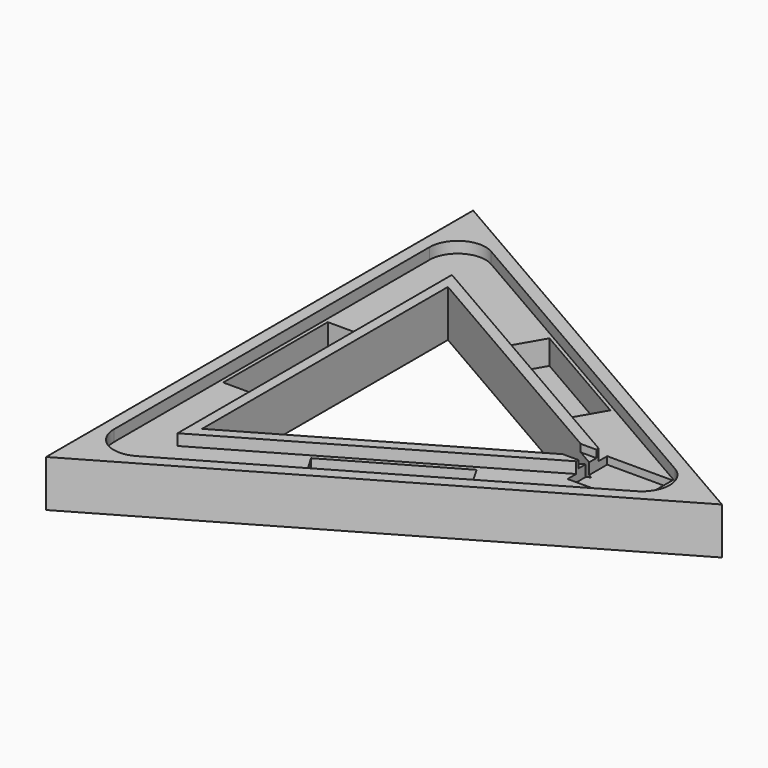
from build123d import *

# Parameters (mm, degrees)
PRISM003_DEPTH         = 6
PRISM002_DEPTH         = 6
BOX004_W               = 10
BOX004_H               = 12
BOX004_DEPTH           = 4
BOX003_W               = 35
BOX003_H               = 26.5
BOX003_DEPTH           = 10
BOX002_W               = 70
BOX002_H               = 19
BOX002_DEPTH           = 19
BOX002_PLACEMENT_ANGLE = 30
BOX001_W               = 70
BOX001_H               = 19
BOX001_DEPTH           = 19
BOX001_PLACEMENT_ANGLE = 90
BOX_W                  = 70
BOX_H                  = 19
BOX_DEPTH              = 19
BOX_PLACEMENT_ANGLE    = 30
PRISM001_DEPTH         = 25
PRISM_DEPTH            = 25
FILLET_R               = 15


with BuildPart() as prism003:
    # Prism003 → Prism003 (new body)
    with BuildSketch(Plane.XY.offset(13)):
        Polygon((106, 0), (-53, 91.798693), (-53, -91.798693), align=None)
    extrude(amount=PRISM003_DEPTH)


with BuildPart() as cut006:
    # Prism002 → Prism002 (new body)
    with BuildSketch(Plane.XY.offset(13)):
        Polygon((152, 0), (-76, 131.635861), (-76, -131.635861), align=None)
    extrude(amount=PRISM002_DEPTH)

    # Cut006: cut Prism003
    add(prism003.part, mode=Mode.SUBTRACT)


with BuildPart() as box004:
    # Box004 → Box004 (new body)
    with BuildSketch(Plane(origin=(84, -6, 15), x_dir=(1, 0, 0), z_dir=(0, 0, 1))):
        with Locations((5, 6)):
            Rectangle(BOX004_W, BOX004_H)
    extrude(amount=BOX004_DEPTH)


with BuildPart() as box003:
    # Box003 → Box003 (new body)
    with BuildSketch(Plane(origin=(93, -13.3, 9), x_dir=(1, 0, 0), z_dir=(0, 0, 1))):
        with Locations((17.5, 13.25)):
            Rectangle(BOX003_W, BOX003_H)
    extrude(amount=BOX003_DEPTH)


with BuildPart() as box002:
    # Box002 → Box002 (new body)
    with BuildSketch(Plane.XY):
        with Locations((35, 9.5)):
            Rectangle(BOX002_W, BOX002_H)
    extrude(amount=BOX002_DEPTH)


with BuildPart() as box002_1:
    # Box002 placement: moved
    add(box002.part.moved(Location((7, -82, 0))).rotate(Axis((7, -82, 0), (0, 0, 1)), BOX002_PLACEMENT_ANGLE))


with BuildPart() as box001:
    # Box001 → Box001 (new body)
    with BuildSketch(Plane.XY):
        with Locations((35, 9.5)):
            Rectangle(BOX001_W, BOX001_H)
    extrude(amount=BOX001_DEPTH)


with BuildPart() as box001_1:
    # Box001 placement: moved
    add(box001.part.moved(Location((-55, -35, 0))).rotate(Axis((-55, -35, 0), (0, 0, 1)), BOX001_PLACEMENT_ANGLE))


with BuildPart() as box:
    # Box → Box (new body)
    with BuildSketch(Plane.XY):
        with Locations((35, 9.5)):
            Rectangle(BOX_W, BOX_H)
    extrude(amount=BOX_DEPTH)


with BuildPart() as box_1:
    # Box placement: moved
    add(box.part.moved(Location((-2, 65, 0))).rotate(Axis((-2, 65, 0), (0, 0, -1)), BOX_PLACEMENT_ANGLE))


with BuildPart() as prism001:
    # Prism001 → Prism001 (new body)
    with BuildSketch(Plane.XY.offset(-6)):
        Polygon((95, 0), (-47.5, 82.272413), (-47.5, -82.272413), align=None)
    extrude(amount=PRISM001_DEPTH)


with BuildPart() as base_fillet:
    # Prism → Prism (new body)
    with BuildSketch(Plane.XY.offset(-6)):
        Polygon((165, 0), (-82.5, 142.894192), (-82.5, -142.894192), align=None)
    extrude(amount=PRISM_DEPTH)

    # Cut: cut Prism001
    add(prism001.part, mode=Mode.SUBTRACT)

    # Cut001: cut Box
    add(box_1.part, mode=Mode.SUBTRACT)

    # Cut002: cut Box001
    add(box001_1.part, mode=Mode.SUBTRACT)

    # Cut003: cut Box002
    add(box002_1.part, mode=Mode.SUBTRACT)

    # Cut004: cut Box003
    add(box003.part, mode=Mode.SUBTRACT)

    # Cut005: cut Box004
    add(box004.part, mode=Mode.SUBTRACT)

    # Cut007: cut Cut006
    add(cut006.part, mode=Mode.SUBTRACT)

    # Fillet
    fillet_edges = [base_fillet.edges().sort_by_distance(p)[0] for p in [
        (152, 0, 16),
        (-76, 131.635861, 16),
        (-76, -131.635861, 16),
    ]]
    fillet(fillet_edges, radius=FILLET_R)


solid = base_fillet.part
